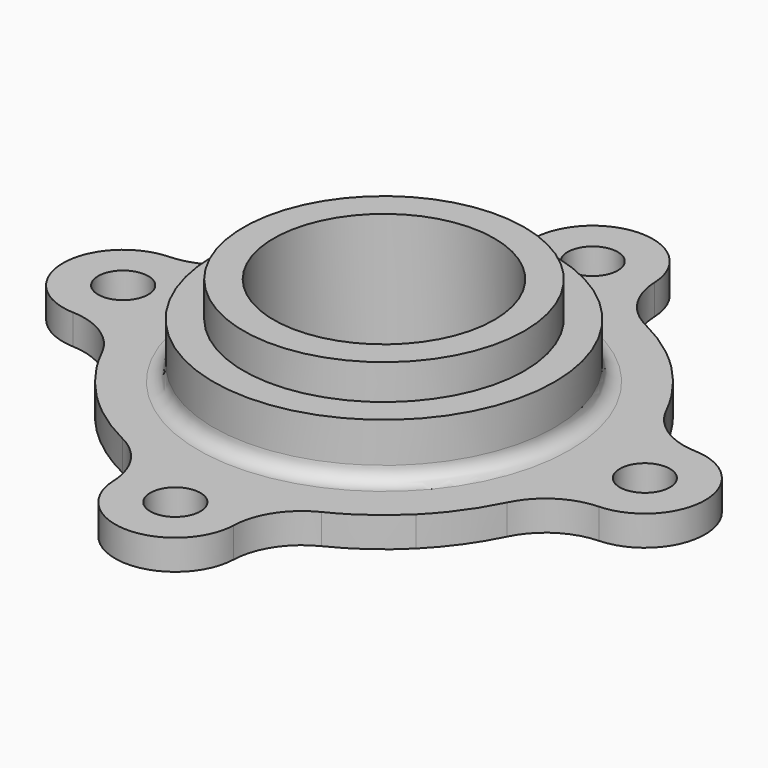
from build123d import *

# Parameters (mm, degrees)
PAD_DEPTH             = 12
POLARPATTERN_COUNT    = 4
SKETCH003_R           = 11
POCKET_DEPTH          = 12.001
SKETCH004_R           = 2.5
POCKET001_DEPTH       = 185.604396
POLARPATTERN001_COUNT = 4


with BuildPart() as part:
    # Sketch → Pad (new body)
    with BuildSketch(Plane.XY):
        with BuildLine():
            ThreePointArc((15.909903, 15.909903), (13.086202, 18.303041), (9.908356, 20.200854))
            ThreePointArc((5.995813, 26.224112), (7.120676, 22.672423), (9.908356, 20.200854))
            ThreePointArc((5.995813, 26.224112), (0, 32), (-5.995813, 26.224112))
            ThreePointArc((-9.908356, 20.200854), (-7.120676, 22.672423), (-5.995813, 26.224112))
            ThreePointArc((-9.908356, 20.200854), (-13.086202, 18.303041), (-15.909903, 15.909903))
            Line((-15.909903, 15.909903), (0, 0))
            Line((0, 0), (15.909903, 15.909903))
        make_face()
    pad = extrude(amount=PAD_DEPTH)

    # PolarPattern: Pad ×4 about axis
    polarpattern_axis = Axis((0, 0, 0), (0, 0, 1))
    for i in range(1, POLARPATTERN_COUNT):
        add(pad.rotate(polarpattern_axis, i * 360 / POLARPATTERN_COUNT))

    # SubtractivePipe: sweep along a path in Sketch002
    with BuildLine(Plane.XY.offset(12)) as subtractivepipe_path:
        CenterArc((0, 0), 14, 0, 360)
    # Sketch001 → SubtractivePipe (sweep, cut)
    with BuildSketch(Plane.YZ):
        with BuildLine():
            Line((-14, 12), (-32, 12))
            Line((-32, 12), (-32, 3))
            Line((-32, 3), (-18.5, 3))
            ThreePointArc((-18.5, 3), (-17.43934, 3.43934), (-17, 4.5))
            Line((-17, 4.5), (-17, 8.5))
            Line((-17, 8.5), (-14, 8.5))
            Line((-14, 8.5), (-14, 12))
        make_face()
    sweep(path=subtractivepipe_path.line, mode=Mode.SUBTRACT)

    # Sketch003 (on Face31 of SubtractivePipe) → Pocket (cut, through all)
    with BuildSketch(Plane.XY.offset(12)):
        Circle(SKETCH003_R)
    extrude(amount=-POCKET_DEPTH, mode=Mode.SUBTRACT)

    # Sketch004 (on Face4 of Pocket) → Pocket001 (cut, through all)
    with BuildSketch(Plane.XY.offset(3)):
        with Locations((0, 26)):
            Circle(SKETCH004_R)
    pocket001 = extrude(amount=-POCKET001_DEPTH, mode=Mode.SUBTRACT)

    # PolarPattern001: Pocket001 ×4 about axis
    polarpattern001_axis = Axis((0, 0, 3), (0, 0, 1))
    for i in range(1, POLARPATTERN001_COUNT):
        add(pocket001.rotate(polarpattern001_axis, i * 360 / POLARPATTERN001_COUNT), mode=Mode.SUBTRACT)


solid = part.part
